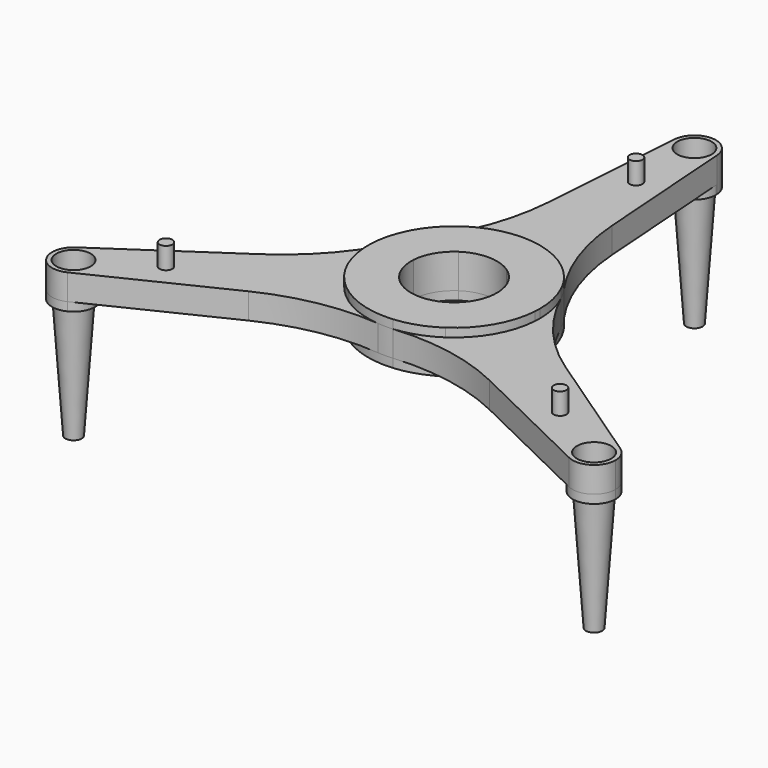
from build123d import *

# Parameters (mm, degrees)
F1_DEPTH = 20.32
F2_DEPTH = 5.08
F0_R     = 10.16
F3_DEPTH = 15.24
F4_DEPTH = 5.08
F5_DEPTH = 76.2
F5_TAPER = 4
F6_R     = 3.81
F7_DEPTH = 12.7


with BuildPart() as f1:
    # F0 (on Top) → F1 (new body)
    with BuildSketch(Plane.XY):
        with BuildLine():
            ThreePointArc((-25.3351212223, 1.8142857143), (-21.9970452561, 12.7), (-14.2387781294, 21.0337157293))
            Line((-14.2387781294, 21.0337157293), (-24.4539965951, 14.1185215169))
            Line((-24.4539965951, 14.1185215169), (-25.3351212223, 1.8142857143))
        make_face()
        with BuildLine():
            ThreePointArc((14.2387781294, 21.0337157293), (21.9970452561, 12.7), (25.3351212223, 1.8142857143))
            Line((25.3351212223, 1.8142857143), (24.4539965951, 14.1185215169))
            Line((24.4539965951, 14.1185215169), (14.2387781294, 21.0337157293))
        make_face()
        with BuildLine():
            Line((0, -28.2370430339), (11.0963430928, -22.8480014436))
            ThreePointArc((11.0963430928, -22.8480014436), (0, -25.4), (-11.0963430928, -22.8480014436))
            Line((-11.0963430928, -22.8480014436), (0, -28.2370430339))
        make_face()
        with BuildLine():
            ThreePointArc((25.3351212223, 1.8142857143), (25.3837751235, 0.9077226874), (25.4, 0))
            ThreePointArc((25.4, 0), (21.5291327572, -13.4779984687), (11.0963430928, -22.8480014436))
            Line((11.0963430928, -22.8480014436), (0, -28.2370430339))
            Line((0, -28.2370430339), (28.4775562589, -42.0674314586))
            ThreePointArc((28.4775562589, -42.0674314586), (43.9940905122, -25.4), (50.6702424445, -3.6285714286))
            Line((50.6702424445, -3.6285714286), (24.4539965951, 14.1185215169))
            Line((24.4539965951, 14.1185215169), (25.3351212223, 1.8142857143))
        make_face()
        with BuildLine():
            Line((0, -28.2370430339), (-11.0963430928, -22.8480014436))
            ThreePointArc((-11.0963430928, -22.8480014436), (-21.9970452561, -12.7), (-25.3351212223, 1.8142857143))
            Line((-25.3351212223, 1.8142857143), (-24.4539965951, 14.1185215169))
            Line((-24.4539965951, 14.1185215169), (-50.6702424445, -3.6285714286))
            ThreePointArc((-50.6702424445, -3.6285714286), (-43.9940905122, -25.4), (-28.4775562589, -42.0674314586))
            Line((-28.4775562589, -42.0674314586), (0, -28.2370430339))
        make_face()
        with BuildLine():
            Line((28.4775562589, -42.0674314586), (0, -28.2370430339))
            Line((0, -28.2370430339), (-28.4775562589, -42.0674314586))
            ThreePointArc((-28.4775562589, -42.0674314586), (-17.0387708432, -47.8572908568), (-4.5147377685, -50.5989836151))
            ThreePointArc((-4.5147377685, -50.5989836151), (0, -50.8), (4.5147377685, -50.5989836151))
            ThreePointArc((4.5147377685, -50.5989836151), (17.0387708432, -47.8572908568), (28.4775562589, -42.0674314586))
        make_face()
        with BuildLine():
            Line((22.1926861857, 45.6960028872), (24.4539965951, 14.1185215169))
            Line((24.4539965951, 14.1185215169), (50.6702424445, -3.6285714286))
            ThreePointArc((50.6702424445, -3.6285714286), (50.7675502471, -1.8154453748), (50.8, 0))
            ThreePointArc((50.8, 0), (49.605295102, 10.9523832039), (46.0773741006, 21.3896142086))
            ThreePointArc((46.0773741006, 21.3896142086), (43.9940905122, 25.4), (41.5626363321, 29.2093694065))
            ThreePointArc((41.5626363321, 29.2093694065), (32.9262442167, 38.6846538279), (22.1926861857, 45.6960028872))
        make_face()
        with BuildLine():
            ThreePointArc((-14.2387781294, 21.0337157293), (0, 25.4), (14.2387781294, 21.0337157293))
            Line((14.2387781294, 21.0337157293), (24.4539965951, 14.1185215169))
            Line((24.4539965951, 14.1185215169), (22.1926861857, 45.6960028872))
            ThreePointArc((22.1926861857, 45.6960028872), (0, 50.8), (-22.1926861857, 45.6960028872))
            Line((-22.1926861857, 45.6960028872), (-24.4539965951, 14.1185215169))
            Line((-24.4539965951, 14.1185215169), (-14.2387781294, 21.0337157293))
        make_face()
        with BuildLine():
            Line((-50.6702424445, -3.6285714286), (-24.4539965951, 14.1185215169))
            Line((-24.4539965951, 14.1185215169), (-22.1926861857, 45.6960028872))
            ThreePointArc((-22.1926861857, 45.6960028872), (-32.9262442167, 38.6846538279), (-41.5626363321, 29.2093694065))
            ThreePointArc((-41.5626363321, 29.2093694065), (-43.9940905122, 25.4), (-46.0773741006, 21.3896142086))
            ThreePointArc((-46.0773741006, 21.3896142086), (-49.9650150599, 9.172637029), (-50.6702424445, -3.6285714286))
        make_face()
    extrude(amount=F1_DEPTH)

    # F0 (on Top) → F2 (join)
    with BuildSketch(Plane.XY):
        with BuildLine():
            Line((0, -28.2370430339), (11.0963430928, -22.8480014436))
            ThreePointArc((11.0963430928, -22.8480014436), (0, -25.4), (-11.0963430928, -22.8480014436))
            Line((-11.0963430928, -22.8480014436), (0, -28.2370430339))
        make_face()
        with BuildLine():
            ThreePointArc((14.2387781294, 21.0337157293), (21.9970452561, 12.7), (25.3351212223, 1.8142857143))
            Line((25.3351212223, 1.8142857143), (24.4539965951, 14.1185215169))
            Line((24.4539965951, 14.1185215169), (14.2387781294, 21.0337157293))
        make_face()
        with BuildLine():
            ThreePointArc((-25.3351212223, 1.8142857143), (-21.9970452561, 12.7), (-14.2387781294, 21.0337157293))
            Line((-14.2387781294, 21.0337157293), (-24.4539965951, 14.1185215169))
            Line((-24.4539965951, 14.1185215169), (-25.3351212223, 1.8142857143))
        make_face()
        with BuildLine():
            Line((0, -28.2370430339), (-11.0963430928, -22.8480014436))
            ThreePointArc((-11.0963430928, -22.8480014436), (-21.9970452561, -12.7), (-25.3351212223, 1.8142857143))
            Line((-25.3351212223, 1.8142857143), (-24.4539965951, 14.1185215169))
            Line((-24.4539965951, 14.1185215169), (-50.6702424445, -3.6285714286))
            ThreePointArc((-50.6702424445, -3.6285714286), (-43.9940905122, -25.4), (-28.4775562589, -42.0674314586))
            Line((-28.4775562589, -42.0674314586), (0, -28.2370430339))
        make_face()
        with BuildLine():
            Line((28.4775562589, -42.0674314586), (0, -28.2370430339))
            Line((0, -28.2370430339), (-28.4775562589, -42.0674314586))
            ThreePointArc((-28.4775562589, -42.0674314586), (-17.0387708432, -47.8572908568), (-4.5147377685, -50.5989836151))
            ThreePointArc((-4.5147377685, -50.5989836151), (0, -50.8), (4.5147377685, -50.5989836151))
            ThreePointArc((4.5147377685, -50.5989836151), (17.0387708432, -47.8572908568), (28.4775562589, -42.0674314586))
        make_face()
        with BuildLine():
            ThreePointArc((25.3351212223, 1.8142857143), (25.3837751235, 0.9077226874), (25.4, 0))
            ThreePointArc((25.4, 0), (21.5291327572, -13.4779984687), (11.0963430928, -22.8480014436))
            Line((11.0963430928, -22.8480014436), (0, -28.2370430339))
            Line((0, -28.2370430339), (28.4775562589, -42.0674314586))
            ThreePointArc((28.4775562589, -42.0674314586), (43.9940905122, -25.4), (50.6702424445, -3.6285714286))
            Line((50.6702424445, -3.6285714286), (24.4539965951, 14.1185215169))
            Line((24.4539965951, 14.1185215169), (25.3351212223, 1.8142857143))
        make_face()
        with BuildLine():
            Line((22.1926861857, 45.6960028872), (24.4539965951, 14.1185215169))
            Line((24.4539965951, 14.1185215169), (50.6702424445, -3.6285714286))
            ThreePointArc((50.6702424445, -3.6285714286), (50.7675502471, -1.8154453748), (50.8, 0))
            ThreePointArc((50.8, 0), (49.605295102, 10.9523832039), (46.0773741006, 21.3896142086))
            ThreePointArc((46.0773741006, 21.3896142086), (43.9940905122, 25.4), (41.5626363321, 29.2093694065))
            ThreePointArc((41.5626363321, 29.2093694065), (32.9262442167, 38.6846538279), (22.1926861857, 45.6960028872))
        make_face()
        with BuildLine():
            ThreePointArc((-14.2387781294, 21.0337157293), (0, 25.4), (14.2387781294, 21.0337157293))
            Line((14.2387781294, 21.0337157293), (24.4539965951, 14.1185215169))
            Line((24.4539965951, 14.1185215169), (22.1926861857, 45.6960028872))
            ThreePointArc((22.1926861857, 45.6960028872), (0, 50.8), (-22.1926861857, 45.6960028872))
            Line((-22.1926861857, 45.6960028872), (-24.4539965951, 14.1185215169))
            Line((-24.4539965951, 14.1185215169), (-14.2387781294, 21.0337157293))
        make_face()
        with BuildLine():
            Line((-50.6702424445, -3.6285714286), (-24.4539965951, 14.1185215169))
            Line((-24.4539965951, 14.1185215169), (-22.1926861857, 45.6960028872))
            ThreePointArc((-22.1926861857, 45.6960028872), (-32.9262442167, 38.6846538279), (-41.5626363321, 29.2093694065))
            ThreePointArc((-41.5626363321, 29.2093694065), (-43.9940905122, 25.4), (-46.0773741006, 21.3896142086))
            ThreePointArc((-46.0773741006, 21.3896142086), (-49.9650150599, 9.172637029), (-50.6702424445, -3.6285714286))
        make_face()
    extrude(amount=-F2_DEPTH)

    # F0 (on Top) → F3 (join)
    with BuildSketch(Plane.XY):
        with BuildLine():
            Line((22.1926861857, 45.6960028872), (24.4539965951, 14.1185215169))
            Line((24.4539965951, 14.1185215169), (50.6702424445, -3.6285714286))
            ThreePointArc((50.6702424445, -3.6285714286), (50.7675502471, -1.8154453748), (50.8, 0))
            ThreePointArc((50.8, 0), (49.605295102, 10.9523832039), (46.0773741006, 21.3896142086))
            ThreePointArc((46.0773741006, 21.3896142086), (43.9940905122, 25.4), (41.5626363321, 29.2093694065))
            ThreePointArc((41.5626363321, 29.2093694065), (32.9262442167, 38.6846538279), (22.1926861857, 45.6960028872))
        make_face()
        with BuildLine():
            Line((28.4775562589, -42.0674314586), (0, -28.2370430339))
            Line((0, -28.2370430339), (-28.4775562589, -42.0674314586))
            ThreePointArc((-28.4775562589, -42.0674314586), (-17.0387708432, -47.8572908568), (-4.5147377685, -50.5989836151))
            ThreePointArc((-4.5147377685, -50.5989836151), (0, -50.8), (4.5147377685, -50.5989836151))
            ThreePointArc((4.5147377685, -50.5989836151), (17.0387708432, -47.8572908568), (28.4775562589, -42.0674314586))
        make_face()
        with BuildLine():
            Line((18.7936210511, 93.1613643513), (22.1926861857, 45.6960028872))
            ThreePointArc((22.1926861857, 45.6960028872), (32.9262442167, 38.6846538279), (41.5626363321, 29.2093694065))
            ThreePointArc((41.5626363321, 29.2093694065), (25.8260000204, 59.6358658147), (18.7936210511, 93.1613643513))
        make_face()
        with BuildLine():
            ThreePointArc((-22.1926861857, 45.6960028872), (0, 50.8), (22.1926861857, 45.6960028872))
            Line((22.1926861857, 45.6960028872), (18.7936210511, 93.1613643513))
            Line((18.7936210511, 93.1613643513), (12.6675606111, 178.7071428571))
            ThreePointArc((12.6675606111, 178.7071428571), (12.6918875618, 178.2538613437), (12.7, 177.8))
            ThreePointArc((12.7, 177.8), (-0.4538613437, 165.1081124382), (-12.6675606111, 178.7071428571))
            Line((-12.6675606111, 178.7071428571), (-18.7936210511, 93.1613643513))
            Line((-18.7936210511, 93.1613643513), (-22.1926861857, 45.6960028872))
        make_face()
        with BuildLine():
            Line((90.0769187049, -30.3049289163), (50.6702424445, -3.6285714286))
            ThreePointArc((50.6702424445, -3.6285714286), (43.9940905122, -25.4), (28.4775562589, -42.0674314586))
            Line((28.4775562589, -42.0674314586), (71.2832976539, -62.856435435))
            Line((71.2832976539, -62.856435435), (148.4311452465, -100.3240007218))
            ThreePointArc((148.4311452465, -100.3240007218), (142.9807941648, -82.55), (161.0987058576, -78.3831421354))
            Line((161.0987058576, -78.3831421354), (90.0769187049, -30.3049289163))
        make_face()
        with BuildLine():
            ThreePointArc((50.8, 0), (50.7675502471, -1.8154453748), (50.6702424445, -3.6285714286))
            Line((50.6702424445, -3.6285714286), (90.0769187049, -30.3049289163))
            ThreePointArc((90.0769187049, -30.3049289163), (64.5591747824, -7.4519608116), (46.0773741006, 21.3896142086))
            ThreePointArc((46.0773741006, 21.3896142086), (49.605295102, 10.9523832039), (50.8, 0))
        make_face()
        with BuildLine():
            Line((-71.2832976539, -62.856435435), (-28.4775562589, -42.0674314586))
            ThreePointArc((-28.4775562589, -42.0674314586), (-43.9940905122, -25.4), (-50.6702424445, -3.6285714286))
            Line((-50.6702424445, -3.6285714286), (-90.0769187049, -30.3049289163))
            Line((-90.0769187049, -30.3049289163), (-161.0987058576, -78.3831421354))
            ThreePointArc((-161.0987058576, -78.3831421354), (-148.0264284654, -77.6815722777), (-141.2793167929, -88.9))
            ThreePointArc((-141.2793167929, -88.9), (-143.2147504143, -95.6389992343), (-148.4311452465, -100.3240007218))
            Line((-148.4311452465, -100.3240007218), (-71.2832976539, -62.856435435))
        make_face()
        with BuildLine():
            ThreePointArc((-4.5147377685, -50.5989836151), (-17.0387708432, -47.8572908568), (-28.4775562589, -42.0674314586))
            Line((-28.4775562589, -42.0674314586), (-71.2832976539, -62.856435435))
            ThreePointArc((-71.2832976539, -62.856435435), (-38.7331747621, -52.1839050031), (-4.5147377685, -50.5989836151))
        make_face()
        with BuildLine():
            Line((71.2832976539, -62.856435435), (28.4775562589, -42.0674314586))
            ThreePointArc((28.4775562589, -42.0674314586), (17.0387708432, -47.8572908568), (4.5147377685, -50.5989836151))
            ThreePointArc((4.5147377685, -50.5989836151), (38.7331747621, -52.1839050031), (71.2832976539, -62.856435435))
        make_face()
        with BuildLine():
            Line((-50.6702424445, -3.6285714286), (-24.4539965951, 14.1185215169))
            Line((-24.4539965951, 14.1185215169), (-22.1926861857, 45.6960028872))
            ThreePointArc((-22.1926861857, 45.6960028872), (-32.9262442167, 38.6846538279), (-41.5626363321, 29.2093694065))
            ThreePointArc((-41.5626363321, 29.2093694065), (-43.9940905122, 25.4), (-46.0773741006, 21.3896142086))
            ThreePointArc((-46.0773741006, 21.3896142086), (-49.9650150599, 9.172637029), (-50.6702424445, -3.6285714286))
        make_face()
        with BuildLine():
            ThreePointArc((-41.5626363321, 29.2093694065), (-32.9262442167, 38.6846538279), (-22.1926861857, 45.6960028872))
            Line((-22.1926861857, 45.6960028872), (-18.7936210511, 93.1613643513))
            ThreePointArc((-18.7936210511, 93.1613643513), (-25.8260000204, 59.6358658147), (-41.5626363321, 29.2093694065))
        make_face()
        with BuildLine():
            Line((-90.0769187049, -30.3049289163), (-50.6702424445, -3.6285714286))
            ThreePointArc((-50.6702424445, -3.6285714286), (-49.9650150599, 9.172637029), (-46.0773741006, 21.3896142086))
            ThreePointArc((-46.0773741006, 21.3896142086), (-64.5591747824, -7.4519608116), (-90.0769187049, -30.3049289163))
        make_face()
        with BuildLine():
            ThreePointArc((12.7, 177.8), (12.6918875618, 178.2538613437), (12.6675606111, 178.7071428571))
            ThreePointArc((12.6675606111, 178.7071428571), (0, 190.5), (-12.6675606111, 178.7071428571))
            ThreePointArc((-12.6675606111, 178.7071428571), (-0.4538613437, 165.1081124382), (12.7, 177.8))
        make_face()
        with Locations((0, 177.8)):
            Circle(F0_R, mode=Mode.SUBTRACT)
        with BuildLine():
            ThreePointArc((166.6793167929, -88.9), (165.1977445152, -82.9471116726), (161.0987058576, -78.3831421354))
            ThreePointArc((161.0987058576, -78.3831421354), (142.9807941648, -82.55), (148.4311452465, -100.3240007218))
            ThreePointArc((148.4311452465, -100.3240007218), (160.7183160272, -99.6645663786), (166.6793167929, -88.9))
        make_face()
        with Locations((153.9793167929, -88.9)):
            Circle(F0_R, mode=Mode.SUBTRACT)
        with BuildLine():
            ThreePointArc((-161.0987058576, -78.3831421354), (-164.9778394209, -95.25), (-148.4311452465, -100.3240007218))
            ThreePointArc((-148.4311452465, -100.3240007218), (-143.2147504143, -95.6389992343), (-141.2793167929, -88.9))
            ThreePointArc((-141.2793167929, -88.9), (-148.0264284654, -77.6815722777), (-161.0987058576, -78.3831421354))
        make_face()
        with Locations((-153.9793167929, -88.9)):
            Circle(F0_R, mode=Mode.SUBTRACT)
    extrude(amount=F3_DEPTH)

    # F0 (on Top) → F4 (join)
    with BuildSketch(Plane.XY):
        with BuildLine():
            ThreePointArc((166.6793167929, -88.9), (165.1977445152, -82.9471116726), (161.0987058576, -78.3831421354))
            ThreePointArc((161.0987058576, -78.3831421354), (142.9807941648, -82.55), (148.4311452465, -100.3240007218))
            ThreePointArc((148.4311452465, -100.3240007218), (160.7183160272, -99.6645663786), (166.6793167929, -88.9))
        make_face()
        with Locations((153.9793167929, -88.9)):
            Circle(F0_R, mode=Mode.SUBTRACT)
        with BuildLine():
            ThreePointArc((-161.0987058576, -78.3831421354), (-164.9778394209, -95.25), (-148.4311452465, -100.3240007218))
            ThreePointArc((-148.4311452465, -100.3240007218), (-143.2147504143, -95.6389992343), (-141.2793167929, -88.9))
            ThreePointArc((-141.2793167929, -88.9), (-148.0264284654, -77.6815722777), (-161.0987058576, -78.3831421354))
        make_face()
        with Locations((-153.9793167929, -88.9)):
            Circle(F0_R, mode=Mode.SUBTRACT)
        with BuildLine():
            ThreePointArc((12.7, 177.8), (12.6918875618, 178.2538613437), (12.6675606111, 178.7071428571))
            ThreePointArc((12.6675606111, 178.7071428571), (0, 190.5), (-12.6675606111, 178.7071428571))
            ThreePointArc((-12.6675606111, 178.7071428571), (-0.4538613437, 165.1081124382), (12.7, 177.8))
        make_face()
        with Locations((0, 177.8)):
            Circle(F0_R, mode=Mode.SUBTRACT)
        with Locations((153.9793167929, -88.9)):
            Circle(F0_R)
        with Locations((-153.9793167929, -88.9)):
            Circle(F0_R)
        with Locations((0, 177.8)):
            Circle(F0_R)
    extrude(amount=-F4_DEPTH)

    # F0 (on Top) → F5 (join)
    with BuildSketch(Plane.XY):
        with Locations((0, 177.8)):
            Circle(F0_R)
        with Locations((153.9793167929, -88.9)):
            Circle(F0_R)
        with Locations((-153.9793167929, -88.9)):
            Circle(F0_R)
    extrude(amount=-F5_DEPTH, taper=F5_TAPER)

    # F6 (on face) → F7 (join)
    with BuildSketch(Plane.XY.offset(15.24)):
        with Locations((116.5830270356, -67.3122740339)):
            Circle(F6_R)
        with Locations((0.0026257821, 134.6200000798)):
            Circle(F6_R)
        with Locations((-116.5856528177, -67.3077260459)):
            Circle(F6_R)
    extrude(amount=F7_DEPTH)


solid = f1.part
